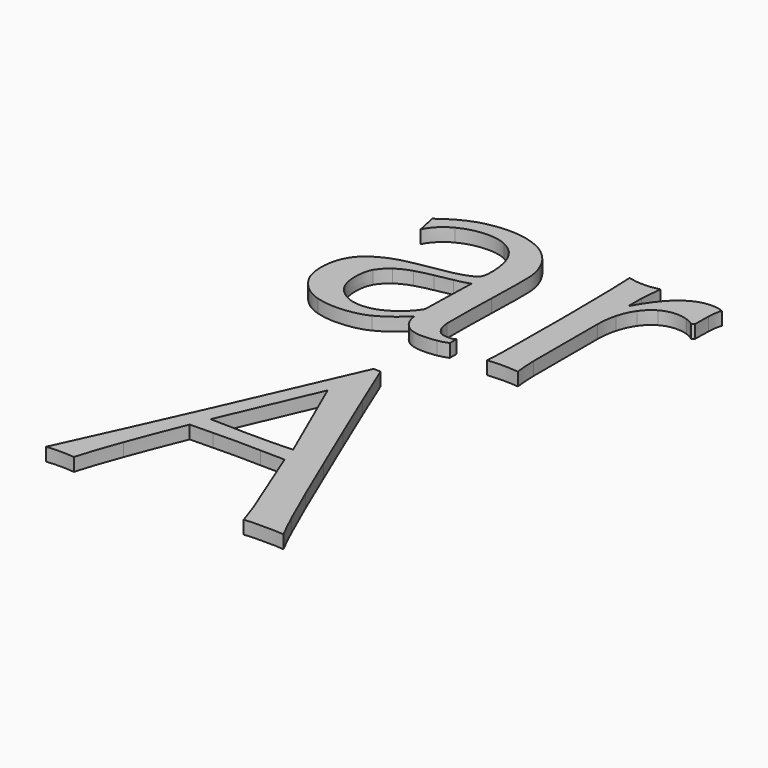
from build123d import *

# Parameters (mm, degrees)
F1_DEPTH = 2


with BuildPart() as f1:
    # F0 (on Top) → F1 (new body)
    with BuildSketch(Plane.XY):
        with BuildLine():
            Line((1.7478588926, -6.0204222788), (0.6621446069, -6.0204222788))
            add(Edge.make_bspline(
                [(-8.1949982503, -26.1347079931), (-5.261664167, -19.5442333025), (-2.3092839646, -12.8394706478), (0.6621446069, -6.0204222788)],
                knots=[0, 0, 0, 0, 1, 1, 1, 1], degree=3))
            add(Edge.make_bspline(
                [(-17.2235696789, -46.0204222788), (-14.1378553931, -39.3537563621), (-11.1283323335, -32.7251849335), (-8.1949982503, -26.1347079931)],
                knots=[0, 0, 0, 0, 1, 1, 1, 1], degree=3))
            add(Edge.make_bspline(
                [(-15.1092839646, -45.9061365646), (-15.8711894764, -45.9061365646), (-16.5759498813, -45.9442333025), (-17.2235696789, -46.0204222788)],
                knots=[0, 0, 0, 0, 1, 1, 1, 1], degree=3))
            add(Edge.make_bspline(
                [(-12.9949982503, -46.0204222788), (-13.6426180478, -45.9442333025), (-14.3473784528, -45.9061365646), (-15.1092839646, -45.9061365646)],
                knots=[0, 0, 0, 0, 1, 1, 1, 1], degree=3))
            add(Edge.make_bspline(
                [(-10.7664268217, -39.3918508503), (-11.7569037621, -42.0585190168), (-12.4997609049, -44.2680420764), (-12.9949982503, -46.0204222788)],
                knots=[0, 0, 0, 0, 1, 1, 1, 1], degree=3))
            add(Edge.make_bspline(
                [(-7.4521411074, -30.877565136), (-8.6711894764, -33.8489937074), (-9.7759498813, -36.6870904453), (-10.7664268217, -39.3918508503)],
                knots=[0, 0, 0, 0, 1, 1, 1, 1], degree=3))
            add(Edge.make_bspline(
                [(-3.9664268217, -30.8204222788), (-5.1092839646, -30.8204222788), (-6.2711894764, -30.8394706478), (-7.4521411074, -30.877565136)],
                knots=[0, 0, 0, 0, 1, 1, 1, 1], degree=3))
            add(Edge.make_bspline(
                [(-0.480712536, -30.7632794217), (-1.661664167, -30.7632794217), (-2.8235696789, -30.7823277907), (-3.9664268217, -30.8204222788)],
                knots=[0, 0, 0, 0, 1, 1, 1, 1], degree=3))
            add(Edge.make_bspline(
                [(3.2907160354, -30.8204222788), (2.0335731783, -30.7823277907), (0.7764303211, -30.7632794217), (-0.480712536, -30.7632794217)],
                knots=[0, 0, 0, 0, 1, 1, 1, 1], degree=3))
            add(Edge.make_bspline(
                [(7.0050017497, -30.877565136), (5.7859533808, -30.8394706478), (4.5478588926, -30.8204222788), (3.2907160354, -30.8204222788)],
                knots=[0, 0, 0, 0, 1, 1, 1, 1], degree=3))
            add(Edge.make_bspline(
                [(8.6050017497, -34.877565136), (8.0335731783, -33.4680420764), (7.5002390951, -32.1347079931), (7.0050017497, -30.877565136)],
                knots=[0, 0, 0, 0, 1, 1, 1, 1], degree=3))
            add(Edge.make_bspline(
                [(10.2621446069, -38.9918508503), (9.7288105236, -37.6204222788), (9.1764303211, -36.2489937074), (8.6050017497, -34.877565136)],
                knots=[0, 0, 0, 0, 1, 1, 1, 1], degree=3))
            add(Edge.make_bspline(
                [(11.8050017497, -42.877565136), (11.3478588926, -41.6204222788), (10.8335731783, -40.3251849335), (10.2621446069, -38.9918508503)],
                knots=[0, 0, 0, 0, 1, 1, 1, 1], degree=3))
            add(Edge.make_bspline(
                [(12.8907160354, -46.0204222788), (12.6240501187, -45.1442333025), (12.2621446069, -44.0966135049), (11.8050017497, -42.877565136)],
                knots=[0, 0, 0, 0, 1, 1, 1, 1], degree=3))
            add(Edge.make_bspline(
                [(14.3764303211, -45.9061365646), (13.919287464, -45.9061365646), (13.4240501187, -45.9442333025), (12.8907160354, -46.0204222788)],
                knots=[0, 0, 0, 0, 1, 1, 1, 1], degree=3))
            add(Edge.make_bspline(
                [(15.919287464, -45.9061365646), (15.3859533808, -45.9061365646), (14.8716676665, -45.9061365646), (14.3764303211, -45.9061365646)],
                knots=[0, 0, 0, 0, 1, 1, 1, 1], degree=3))
            add(Edge.make_bspline(
                [(17.4050017497, -45.9061365646), (16.9478588926, -45.9061365646), (16.4526215472, -45.9061365646), (15.919287464, -45.9061365646)],
                knots=[0, 0, 0, 0, 1, 1, 1, 1], degree=3))
            add(Edge.make_bspline(
                [(18.9478588926, -46.0204222788), (18.4145248093, -45.9442333025), (17.9002390951, -45.9061365646), (17.4050017497, -45.9061365646)],
                knots=[0, 0, 0, 0, 1, 1, 1, 1], degree=3))
            add(Edge.make_bspline(
                [(17.0050017497, -42.0204222788), (17.8050017497, -43.772804731), (18.4526215472, -45.1061365646), (18.9478588926, -46.0204222788)],
                knots=[0, 0, 0, 0, 1, 1, 1, 1], degree=3))
            add(Edge.make_bspline(
                [(14.3764303211, -36.077565136), (15.3669072615, -38.2870904453), (16.2430962379, -40.2680420764), (17.0050017497, -42.0204222788)],
                knots=[0, 0, 0, 0, 1, 1, 1, 1], degree=3))
            add(Edge.make_bspline(
                [(11.2907160354, -28.8204222788), (12.3954786901, -31.4108992192), (13.4240501187, -33.8299475882), (14.3764303211, -36.077565136)],
                knots=[0, 0, 0, 0, 1, 1, 1, 1], degree=3))
            add(Edge.make_bspline(
                [(7.9764303211, -20.9918508503), (9.0811929758, -23.6204222788), (10.1859533808, -26.2299475882), (11.2907160354, -28.8204222788)],
                knots=[0, 0, 0, 0, 1, 1, 1, 1], degree=3))
            add(Edge.make_bspline(
                [(4.719287464, -13.2204222788), (5.7859533808, -15.772804731), (6.8716676665, -18.3632794217), (7.9764303211, -20.9918508503)],
                knots=[0, 0, 0, 0, 1, 1, 1, 1], degree=3))
            add(Edge.make_bspline(
                [(1.7478588926, -6.0204222788), (2.6621446069, -8.2299475882), (3.6526215472, -10.6299475882), (4.719287464, -13.2204222788)],
                knots=[0, 0, 0, 0, 1, 1, 1, 1], degree=3))
        make_face()
        with BuildLine():
            Line((-0.1378553931, -13.7347079931), (6.2050017497, -28.2489937074))
            add(Edge.make_bspline(
                [(3.0050017497, -28.3632794217), (4.0716676665, -28.3251849335), (5.138335833, -28.2870904453), (6.2050017497, -28.2489937074)],
                knots=[0, 0, 0, 0, 1, 1, 1, 1], degree=3))
            add(Edge.make_bspline(
                [(-0.1949982503, -28.3632794217), (0.8716676665, -28.3632794217), (1.938335833, -28.3632794217), (3.0050017497, -28.3632794217)],
                knots=[0, 0, 0, 0, 1, 1, 1, 1], degree=3))
            add(Edge.make_bspline(
                [(-3.280712536, -28.3061365646), (-2.2140466192, -28.3442333025), (-1.1854751907, -28.3632794217), (-0.1949982503, -28.3632794217)],
                knots=[0, 0, 0, 0, 1, 1, 1, 1], degree=3))
            add(Edge.make_bspline(
                [(-6.3664268217, -28.2489937074), (-5.3759498813, -28.2489937074), (-4.3473784528, -28.2680420764), (-3.280712536, -28.3061365646)],
                knots=[0, 0, 0, 0, 1, 1, 1, 1], degree=3))
            Line((-6.3664268217, -28.2489937074), (-0.1378553931, -13.7347079931))
        make_face(mode=Mode.SUBTRACT)
    extrude(amount=F1_DEPTH)


with BuildPart() as f1b:
    # F0 (on Top) → F1, piece 2 (new body)
    with BuildSketch(Plane.XY):
        with BuildLine():
            add(Edge.make_bspline(
                [(-13.3166043512, 31.2006688221), (-14.7642241488, 30.7435259649), (-16.3451757798, 29.8673347389), (-18.0594614941, 28.5720973935)],
                knots=[0, 0, 0, 0, 1, 1, 1, 1], degree=3))
            Line((-18.0594614941, 28.5720973935), (-17.4308900655, 25.6006688221))
            add(Edge.make_bspline(
                [(-17.4308900655, 25.6006688221), (-16.7832725177, 26.8197149413), (-15.8118439463, 27.7720973935), (-14.5166043512, 28.4578116792)],
                knots=[0, 0, 0, 0, 1, 1, 1, 1], degree=3))
            add(Edge.make_bspline(
                [(-14.5166043512, 28.4578116792), (-13.1832725177, 29.1435259649), (-11.7547010891, 29.4863831078), (-10.2308900655, 29.4863831078)],
                knots=[0, 0, 0, 0, 1, 1, 1, 1], degree=3))
            add(Edge.make_bspline(
                [(-10.2308900655, 29.4863831078), (-9.0880329227, 29.4863831078), (-8.1166043512, 29.2768577985), (-7.3166043512, 28.8578116792)],
                knots=[0, 0, 0, 0, 1, 1, 1, 1], degree=3))
            add(Edge.make_bspline(
                [(-7.3166043512, 28.8578116792), (-6.5166043512, 28.4768577985), (-5.8689868034, 27.9625720842), (-5.3737472084, 27.3149545364)],
                knots=[0, 0, 0, 0, 1, 1, 1, 1], degree=3))
            add(Edge.make_bspline(
                [(-5.3737472084, 27.3149545364), (-4.878509863, 26.6673347389), (-4.5166043512, 25.905429227), (-4.2880329227, 25.0292402507)],
                knots=[0, 0, 0, 0, 1, 1, 1, 1], degree=3))
            add(Edge.make_bspline(
                [(-4.2880329227, 25.0292402507), (-4.0594614941, 24.1530490246), (-3.9451757798, 23.2387633103), (-3.9451757798, 22.2863831078)],
                knots=[0, 0, 0, 0, 1, 1, 1, 1], degree=3))
            add(Edge.make_bspline(
                [(-3.9451757798, 22.2863831078), (-3.9451757798, 21.7149545364), (-4.0023186369, 21.2387633103), (-4.1166043512, 20.8578116792)],
                knots=[0, 0, 0, 0, 1, 1, 1, 1], degree=3))
            add(Edge.make_bspline(
                [(-4.1166043512, 20.8578116792), (-4.2308900655, 20.5149545364), (-4.5737472084, 20.2101918817), (-5.1451757798, 19.9435259649)],
                knots=[0, 0, 0, 0, 1, 1, 1, 1], degree=3))
            add(Edge.make_bspline(
                [(-5.1451757798, 19.9435259649), (-5.678509863, 19.6768577985), (-6.5356527202, 19.4101918817), (-7.7166043512, 19.1435259649)],
                knots=[0, 0, 0, 0, 1, 1, 1, 1], degree=3))
            add(Edge.make_bspline(
                [(-7.7166043512, 19.1435259649), (-8.8594614941, 18.9149545364), (-10.4594614941, 18.6292402507), (-12.5166043512, 18.2863831078)],
                knots=[0, 0, 0, 0, 1, 1, 1, 1], degree=3))
            add(Edge.make_bspline(
                [(-12.5166043512, 18.2863831078), (-15.0308900655, 17.8673347389), (-17.0118439463, 17.0292402507), (-18.4594614941, 15.7720973935)],
                knots=[0, 0, 0, 0, 1, 1, 1, 1], degree=3))
            add(Edge.make_bspline(
                [(-18.4594614941, 15.7720973935), (-19.8689868034, 14.5149545364), (-20.5737472084, 12.7435259649), (-20.5737472084, 10.4578116792)],
                knots=[0, 0, 0, 0, 1, 1, 1, 1], degree=3))
            add(Edge.make_bspline(
                [(-20.5737472084, 10.4578116792), (-20.5737472084, 9.3530490246), (-20.3642241488, 8.3625720842), (-19.9451757798, 7.4863831078)],
                knots=[0, 0, 0, 0, 1, 1, 1, 1], degree=3))
            add(Edge.make_bspline(
                [(-19.9451757798, 7.4863831078), (-19.4880329227, 6.6482863699), (-18.9166043512, 5.924477596), (-18.2308900655, 5.3149545364)],
                knots=[0, 0, 0, 0, 1, 1, 1, 1], degree=3))
            add(Edge.make_bspline(
                [(-18.2308900655, 5.3149545364), (-17.5070812916, 4.705429227), (-16.6880329227, 4.2673347389), (-15.7737472084, 4.0006688221)],
                knots=[0, 0, 0, 0, 1, 1, 1, 1], degree=3))
            add(Edge.make_bspline(
                [(-15.7737472084, 4.0006688221), (-14.8594614941, 3.7340006556), (-13.9261296606, 3.6006688221), (-12.9737472084, 3.6006688221)],
                knots=[0, 0, 0, 0, 1, 1, 1, 1], degree=3))
            add(Edge.make_bspline(
                [(-12.9737472084, 3.6006688221), (-11.0308900655, 3.6006688221), (-9.3927955773, 3.924477596), (-8.0594614941, 4.5720973935)],
                knots=[0, 0, 0, 0, 1, 1, 1, 1], degree=3))
            add(Edge.make_bspline(
                [(-8.0594614941, 4.5720973935), (-6.7261296606, 5.2197149413), (-5.3737472084, 6.2292402507), (-4.0023186369, 7.6006688221)],
                knots=[0, 0, 0, 0, 1, 1, 1, 1], degree=3))
            add(Edge.make_bspline(
                [(-4.0023186369, 7.6006688221), (-3.8880329227, 6.6101918817), (-3.5070812916, 5.7911435128), (-2.8594614941, 5.1435259649)],
                knots=[0, 0, 0, 0, 1, 1, 1, 1], degree=3))
            add(Edge.make_bspline(
                [(-2.8594614941, 5.1435259649), (-2.2118439463, 4.5340006556), (-1.278509863, 4.2292402507), (-0.0594614941, 4.2292402507)],
                knots=[0, 0, 0, 0, 1, 1, 1, 1], degree=3))
            add(Edge.make_bspline(
                [(-0.0594614941, 4.2292402507), (0.702441768, 4.2292402507), (1.3881560537, 4.2863831078), (1.9976813631, 4.4006688221)],
                knots=[0, 0, 0, 0, 1, 1, 1, 1], degree=3))
            add(Edge.make_bspline(
                [(1.9976813631, 4.4006688221), (2.6452989109, 4.5149545364), (3.1786329941, 4.6673347389), (3.5976813631, 4.8578116792)],
                knots=[0, 0, 0, 0, 1, 1, 1, 1], degree=3))
            Line((3.5976813631, 4.8578116792), (3.5976813631, 6.1149545364))
            add(Edge.make_bspline(
                [(3.5976813631, 6.1149545364), (3.4072044227, 6.0006688221), (3.1976813631, 5.924477596), (2.9691099345, 5.8863831078)],
                knots=[0, 0, 0, 0, 1, 1, 1, 1], degree=3))
            add(Edge.make_bspline(
                [(2.9691099345, 5.8863831078), (2.7786329941, 5.8863831078), (2.5881560537, 5.8863831078), (2.3976813631, 5.8863831078)],
                knots=[0, 0, 0, 0, 1, 1, 1, 1], degree=3))
            add(Edge.make_bspline(
                [(2.3976813631, 5.8863831078), (1.8262527916, 5.8863831078), (1.3881560537, 6.0197149413), (1.0833956488, 6.2863831078)],
                knots=[0, 0, 0, 0, 1, 1, 1, 1], degree=3))
            add(Edge.make_bspline(
                [(1.0833956488, 6.2863831078), (0.8167274823, 6.5530490246), (0.6072044227, 6.8768577985), (0.4548242202, 7.2578116792)],
                knots=[0, 0, 0, 0, 1, 1, 1, 1], degree=3))
            add(Edge.make_bspline(
                [(0.4548242202, 7.2578116792), (0.302441768, 7.6768577985), (0.2072044227, 8.1340006556), (0.1691099345, 8.6292402507)],
                knots=[0, 0, 0, 0, 1, 1, 1, 1], degree=3))
            add(Edge.make_bspline(
                [(0.1691099345, 8.6292402507), (0.1691099345, 9.1625720842), (0.1691099345, 9.6578116792), (0.1691099345, 10.1149545364)],
                knots=[0, 0, 0, 0, 1, 1, 1, 1], degree=3))
            add(Edge.make_bspline(
                [(0.1691099345, 10.1149545364), (0.1691099345, 12.5149545364), (0.2072044227, 14.7816204531), (0.2833956488, 16.9149545364)],
                knots=[0, 0, 0, 0, 1, 1, 1, 1], degree=3))
            add(Edge.make_bspline(
                [(0.2833956488, 16.9149545364), (0.3595846252, 19.0863831078), (0.3976813631, 21.2578116792), (0.3976813631, 23.4292402507)],
                knots=[0, 0, 0, 0, 1, 1, 1, 1], degree=3))
            add(Edge.make_bspline(
                [(0.3976813631, 23.4292402507), (0.3976813631, 24.6863831078), (0.1691099345, 25.8292402507), (-0.2880329227, 26.8578116792)],
                knots=[0, 0, 0, 0, 1, 1, 1, 1], degree=3))
            add(Edge.make_bspline(
                [(-0.2880329227, 26.8578116792), (-0.7451757798, 27.924477596), (-1.3737472084, 28.8197149413), (-2.1737472084, 29.5435259649)],
                knots=[0, 0, 0, 0, 1, 1, 1, 1], degree=3))
            add(Edge.make_bspline(
                [(-2.1737472084, 29.5435259649), (-2.9737472084, 30.305429227), (-3.9451757798, 30.8768577985), (-5.0880329227, 31.2578116792)],
                knots=[0, 0, 0, 0, 1, 1, 1, 1], degree=3))
            add(Edge.make_bspline(
                [(-5.0880329227, 31.2578116792), (-6.2308900655, 31.6768577985), (-7.4880329227, 31.8863831078), (-8.8594614941, 31.8863831078)],
                knots=[0, 0, 0, 0, 1, 1, 1, 1], degree=3))
            add(Edge.make_bspline(
                [(-8.8594614941, 31.8863831078), (-10.3832725177, 31.8863831078), (-11.8689868034, 31.6578116792), (-13.3166043512, 31.2006688221)],
                knots=[0, 0, 0, 0, 1, 1, 1, 1], degree=3))
        make_face()
        with BuildLine():
            add(Edge.make_bspline(
                [(-6.2308900655, 17.8292402507), (-5.3547010891, 17.9816204531), (-4.5927955773, 18.1720973935), (-3.9451757798, 18.4006688221)],
                knots=[0, 0, 0, 0, 1, 1, 1, 1], degree=3))
            Line((-3.9451757798, 18.4006688221), (-4.1737472084, 9.8292402507))
            add(Edge.make_bspline(
                [(-4.1737472084, 9.8292402507), (-4.8213670059, 8.7625720842), (-5.7547010891, 7.8292402507), (-6.9737472084, 7.0292402507)],
                knots=[0, 0, 0, 0, 1, 1, 1, 1], degree=3))
            add(Edge.make_bspline(
                [(-6.9737472084, 7.0292402507), (-8.1547010891, 6.2292402507), (-9.4689868034, 5.8292402507), (-10.9166043512, 5.8292402507)],
                knots=[0, 0, 0, 0, 1, 1, 1, 1], degree=3))
            add(Edge.make_bspline(
                [(-10.9166043512, 5.8292402507), (-12.1737472084, 5.8292402507), (-13.3166043512, 6.2863831078), (-14.3451757798, 7.2006688221)],
                knots=[0, 0, 0, 0, 1, 1, 1, 1], degree=3))
            add(Edge.make_bspline(
                [(-14.3451757798, 7.2006688221), (-15.3737472084, 8.1149545364), (-15.8880329227, 9.4673347389), (-15.8880329227, 11.2578116792)],
                knots=[0, 0, 0, 0, 1, 1, 1, 1], degree=3))
            add(Edge.make_bspline(
                [(-15.8880329227, 11.2578116792), (-15.8880329227, 12.324477596), (-15.697558232, 13.2006688221), (-15.3166043512, 13.8863831078)],
                knots=[0, 0, 0, 0, 1, 1, 1, 1], degree=3))
            add(Edge.make_bspline(
                [(-15.3166043512, 13.8863831078), (-14.897558232, 14.5720973935), (-14.3642241488, 15.1435259649), (-13.7166043512, 15.6006688221)],
                knots=[0, 0, 0, 0, 1, 1, 1, 1], degree=3))
            add(Edge.make_bspline(
                [(-13.7166043512, 15.6006688221), (-13.0308900655, 16.0578116792), (-12.2689868034, 16.4197149413), (-11.4308900655, 16.6863831078)],
                knots=[0, 0, 0, 0, 1, 1, 1, 1], degree=3))
            add(Edge.make_bspline(
                [(-11.4308900655, 16.6863831078), (-10.5547010891, 16.9530490246), (-9.678509863, 17.1625720842), (-8.8023186369, 17.3149545364)],
                knots=[0, 0, 0, 0, 1, 1, 1, 1], degree=3))
            add(Edge.make_bspline(
                [(-8.8023186369, 17.3149545364), (-7.9261296606, 17.505429227), (-7.0689868034, 17.6768577985), (-6.2308900655, 17.8292402507)],
                knots=[0, 0, 0, 0, 1, 1, 1, 1], degree=3))
        make_face(mode=Mode.SUBTRACT)
    extrude(amount=F1_DEPTH)


with BuildPart() as f1c:
    # F0 (on Top) → F1, piece 3 (new body)
    with BuildSketch(Plane.XY):
        with BuildLine():
            add(Edge.make_bspline(
                [(21.7717893496, 27.2578116792), (22.343217921, 27.0673347389), (22.724169552, 26.8578116792), (22.9146464924, 26.6292402507)],
                knots=[0, 0, 0, 0, 1, 1, 1, 1], degree=3))
            Line((22.9146464924, 26.6292402507), (23.3146464924, 26.9149545364))
            add(Edge.make_bspline(
                [(23.3146464924, 26.9149545364), (23.3146464924, 27.6768577985), (23.3336926117, 28.5149545364), (23.3717893496, 29.4292402507)],
                knots=[0, 0, 0, 0, 1, 1, 1, 1], degree=3))
            add(Edge.make_bspline(
                [(23.3717893496, 29.4292402507), (23.4098838378, 30.3816204531), (23.524169552, 31.0863831078), (23.7146464924, 31.5435259649)],
                knots=[0, 0, 0, 0, 1, 1, 1, 1], degree=3))
            add(Edge.make_bspline(
                [(23.7146464924, 31.5435259649), (23.3336926117, 31.6959061674), (23.0098838378, 31.7911435128), (22.743217921, 31.8292402507)],
                knots=[0, 0, 0, 0, 1, 1, 1, 1], degree=3))
            add(Edge.make_bspline(
                [(22.743217921, 31.8292402507), (22.5146464924, 31.8673347389), (22.2289322067, 31.8863831078), (21.8860750638, 31.8863831078)],
                knots=[0, 0, 0, 0, 1, 1, 1, 1], degree=3))
            add(Edge.make_bspline(
                [(21.8860750638, 31.8863831078), (19.1051211831, 31.8863831078), (16.5908354688, 29.8292402507), (14.343217921, 25.7149545364)],
                knots=[0, 0, 0, 0, 1, 1, 1, 1], degree=3))
            Line((14.343217921, 25.7149545364), (14.2289322067, 25.7720973935))
            add(Edge.make_bspline(
                [(14.2289322067, 25.7720973935), (14.2289322067, 26.4959061674), (14.2289322067, 27.2578116792), (14.2289322067, 28.0578116792)],
                knots=[0, 0, 0, 0, 1, 1, 1, 1], degree=3))
            add(Edge.make_bspline(
                [(14.2289322067, 28.0578116792), (14.2670266949, 28.8578116792), (14.3622640402, 29.9435259649), (14.5146464924, 31.3149545364)],
                knots=[0, 0, 0, 0, 1, 1, 1, 1], degree=3))
            add(Edge.make_bspline(
                [(14.5146464924, 31.3149545364), (14.0955981235, 31.2387633103), (13.6955981235, 31.1625720842), (13.3146464924, 31.0863831078)],
                knots=[0, 0, 0, 0, 1, 1, 1, 1], degree=3))
            add(Edge.make_bspline(
                [(13.3146464924, 31.0863831078), (12.9336926117, 31.0482863699), (12.5717893496, 31.0292402507), (12.2289322067, 31.0292402507)],
                knots=[0, 0, 0, 0, 1, 1, 1, 1], degree=3))
            add(Edge.make_bspline(
                [(12.2289322067, 31.0292402507), (11.8098838378, 31.0292402507), (11.4098838378, 31.0482863699), (11.0289322067, 31.0863831078)],
                knots=[0, 0, 0, 0, 1, 1, 1, 1], degree=3))
            add(Edge.make_bspline(
                [(11.0289322067, 31.0863831078), (10.6479783259, 31.1625720842), (10.2479783259, 31.2387633103), (9.8289322067, 31.3149545364)],
                knots=[0, 0, 0, 0, 1, 1, 1, 1], degree=3))
            add(Edge.make_bspline(
                [(9.8289322067, 31.3149545364), (9.943217921, 28.8006688221), (10.0003607781, 26.5720973935), (10.0003607781, 24.6292402507)],
                knots=[0, 0, 0, 0, 1, 1, 1, 1], degree=3))
            add(Edge.make_bspline(
                [(10.0003607781, 24.6292402507), (10.0384552663, 22.6863831078), (10.0575036353, 20.9720973935), (10.0575036353, 19.4863831078)],
                knots=[0, 0, 0, 0, 1, 1, 1, 1], degree=3))
            Line((10.0575036353, 19.4863831078), (10.0575036353, 17.6578116792))
            add(Edge.make_bspline(
                [(10.0575036353, 17.6578116792), (10.0575036353, 14.4197149413), (10.0384552663, 11.6768577985), (10.0003607781, 9.4292402507)],
                knots=[0, 0, 0, 0, 1, 1, 1, 1], degree=3))
            add(Edge.make_bspline(
                [(10.0003607781, 9.4292402507), (10.0003607781, 7.2197149413), (9.943217921, 5.4673347389), (9.8289322067, 4.1720973935)],
                knots=[0, 0, 0, 0, 1, 1, 1, 1], degree=3))
            add(Edge.make_bspline(
                [(9.8289322067, 4.1720973935), (10.5908354688, 4.2482863699), (11.3908354688, 4.2863831078), (12.2289322067, 4.2863831078)],
                knots=[0, 0, 0, 0, 1, 1, 1, 1], degree=3))
            add(Edge.make_bspline(
                [(12.2289322067, 4.2863831078), (12.9908354688, 4.2863831078), (13.7527409806, 4.2482863699), (14.5146464924, 4.1720973935)],
                knots=[0, 0, 0, 0, 1, 1, 1, 1], degree=3))
            add(Edge.make_bspline(
                [(14.5146464924, 4.1720973935), (14.4003607781, 5.0101918817), (14.324169552, 6.0959061674), (14.2860750638, 7.4292402507)],
                knots=[0, 0, 0, 0, 1, 1, 1, 1], degree=3))
            add(Edge.make_bspline(
                [(14.2860750638, 7.4292402507), (14.2860750638, 8.8006688221), (14.2860750638, 10.7625720842), (14.2860750638, 13.3149545364)],
                knots=[0, 0, 0, 0, 1, 1, 1, 1], degree=3))
            Line((14.2860750638, 13.3149545364), (14.2860750638, 19.6006688221))
            add(Edge.make_bspline(
                [(14.2860750638, 19.6006688221), (14.2860750638, 20.705429227), (14.4194068974, 21.7340006556), (14.6860750638, 22.6863831078)],
                knots=[0, 0, 0, 0, 1, 1, 1, 1], degree=3))
            add(Edge.make_bspline(
                [(14.6860750638, 22.6863831078), (14.9527409806, 23.6768577985), (15.3336926117, 24.5149545364), (15.8289322067, 25.2006688221)],
                knots=[0, 0, 0, 0, 1, 1, 1, 1], degree=3))
            add(Edge.make_bspline(
                [(15.8289322067, 25.2006688221), (16.324169552, 25.924477596), (16.9336926117, 26.4959061674), (17.6575036353, 26.9149545364)],
                knots=[0, 0, 0, 0, 1, 1, 1, 1], degree=3))
            add(Edge.make_bspline(
                [(17.6575036353, 26.9149545364), (18.3813124092, 27.3340006556), (19.2003607781, 27.5435259649), (20.1146464924, 27.5435259649)],
                knots=[0, 0, 0, 0, 1, 1, 1, 1], degree=3))
            add(Edge.make_bspline(
                [(20.1146464924, 27.5435259649), (20.6860750638, 27.5435259649), (21.2384552663, 27.4482863699), (21.7717893496, 27.2578116792)],
                knots=[0, 0, 0, 0, 1, 1, 1, 1], degree=3))
        make_face()
    extrude(amount=F1_DEPTH)


solid = Compound([f1.part, f1b.part, f1c.part])
